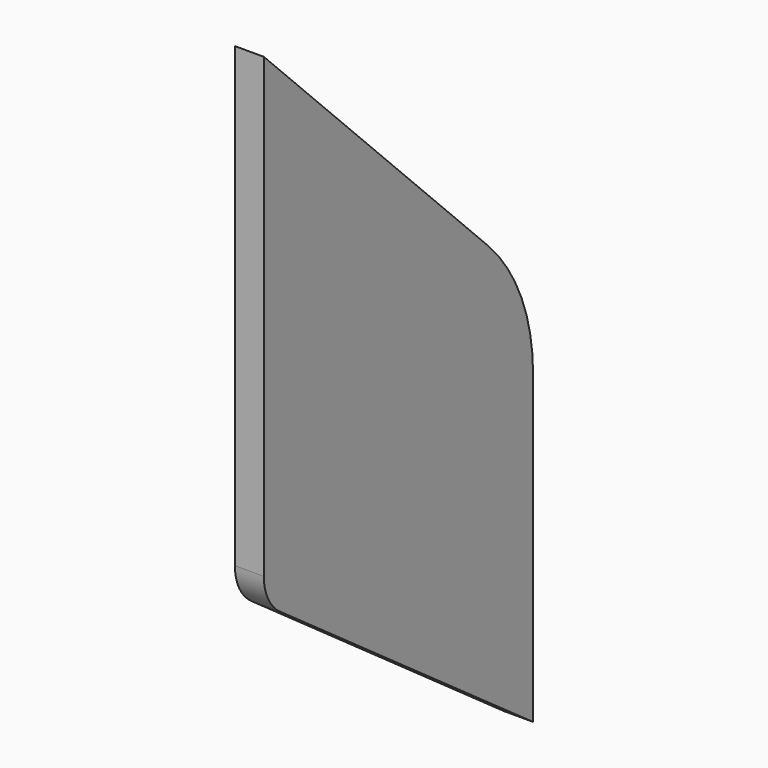
from build123d import *

# Parameters (mm, degrees)
PAD005_DEPTH = 1.5
FILLET004_R  = 20
FILLET005_R  = 5


with BuildPart() as part:
    # Sketch010 → Pad005 (new body, symmetric)
    with BuildSketch(Plane.YZ):
        Polygon((27, -2.5), (61.9, -27.4), (61.9, 12.6), (27, 47.5), align=None)
    extrude(amount=PAD005_DEPTH, both=True)

    # Fillet004
    fillet004_edges = [part.edges().sort_by_distance(p)[0] for p in [
        (0, 61.9, 12.6),
    ]]
    fillet(fillet004_edges, radius=FILLET004_R)

    # Fillet005
    fillet005_edges = [part.edges().sort_by_distance(p)[0] for p in [
        (0, 27, -2.5),
    ]]
    fillet(fillet005_edges, radius=FILLET005_R)


with BuildPart() as part_1:
    # Body006 placement: moved
    add(part.part.moved(Location((0, 30, 0))))


solid = part_1.part
